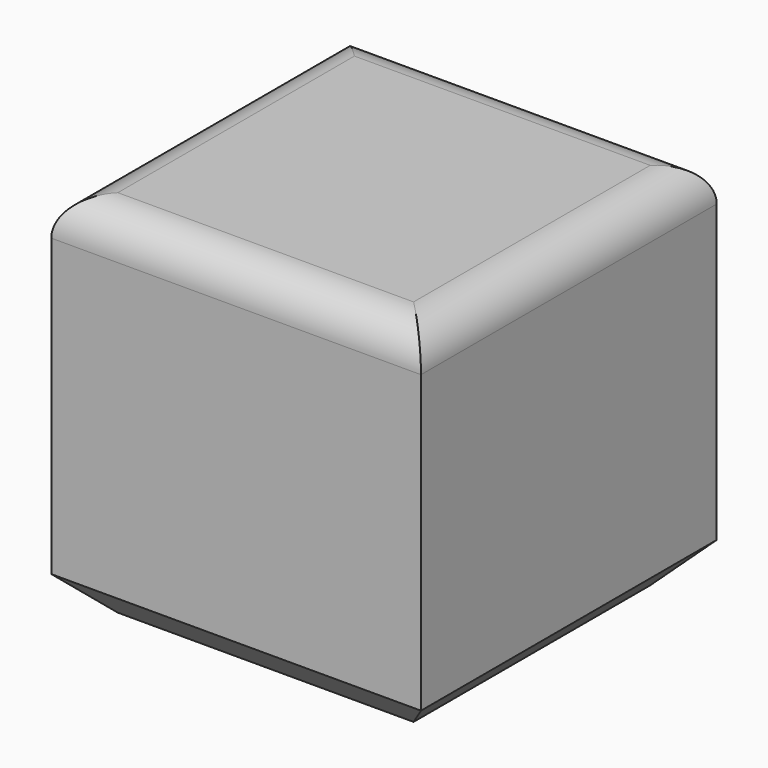
from build123d import *

# Parameters (mm, degrees)
F0_W     = 100
F0_H     = 100
F1_DEPTH = 100
F2_R     = 10
F3_SIZE  = 10


with BuildPart() as f1:
    # F0 (on Top) → F1 (new body)
    with BuildSketch(Plane.XY):
        Rectangle(F0_W, F0_H)
    extrude(amount=F1_DEPTH)

    # F2
    f2_edges = [f1.edges().sort_by_distance(p)[0] for p in [
        (0, 50, 100),
        (-50, 0, 100),
        (0, -50, 100),
        (50, 0, 100),
    ]]
    fillet(f2_edges, radius=F2_R)

    # F3
    f3_edges = [f1.edges().sort_by_distance(p)[0] for p in [
        (0, 50, 0),
        (-50, 0, 0),
        (0, -50, 0),
        (50, 0, 0),
    ]]
    chamfer(f3_edges, length=F3_SIZE)


solid = f1.part
